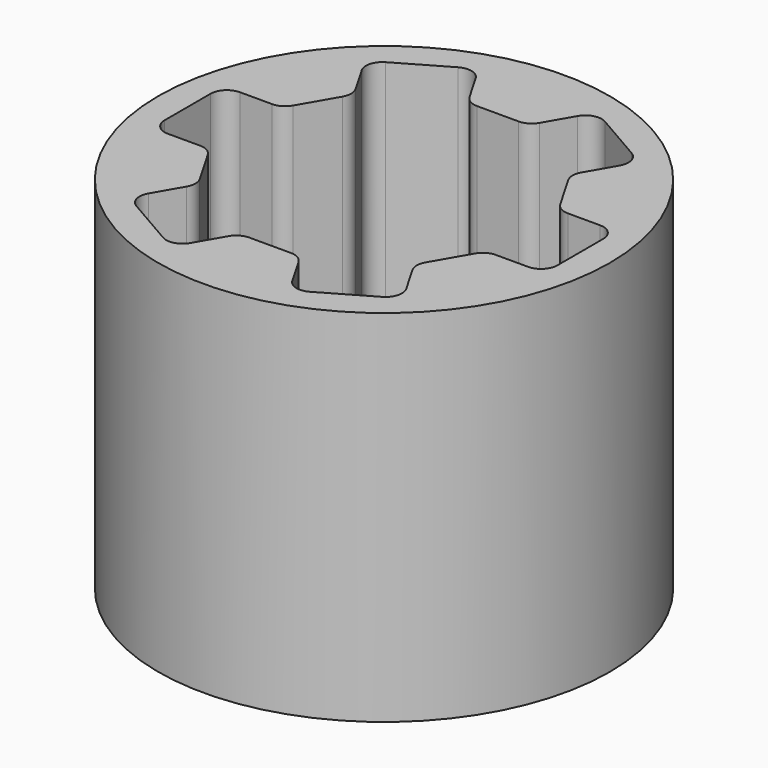
from build123d import *

# Parameters (mm, degrees)
F0_R          = 13.8
F1_DEPTH      = 16
F1_DEPTH_BACK = 6
F2_R          = 13.8
F3_DEPTH      = 2


with BuildPart() as f1:
    # F0 (on Top) → F1 (new body, two sides)
    with BuildSketch(Plane.XY) as f1_sk:
        Circle(F0_R)
        with BuildLine():
            Line((-1.270171, 8.7), (0, 8.7))
            Line((0, 8.7), (1.270171, 8.7))
            ThreePointArc((1.270171, 8.7), (1.770171, 8.833975), (2.136196, 9.2))
            Line((2.136196, 9.2), (3.11843, 10.901279))
            ThreePointArc((3.11843, 10.901279), (3.725636, 11.367205), (4.484456, 11.267305))
            Line((4.484456, 11.267305), (6, 10.392305))
            Line((6, 10.392305), (7.515544, 9.517305))
            ThreePointArc((7.515544, 9.517305), (7.98147, 8.910098), (7.88157, 8.151279))
            Line((7.88157, 8.151279), (6.899336, 6.45))
            ThreePointArc((6.899336, 6.45), (6.765361, 5.95), (6.899336, 5.45))
            Line((6.899336, 5.45), (7.534421, 4.35))
            Line((7.534421, 4.35), (8.169506, 3.25))
            ThreePointArc((8.169506, 3.25), (8.535532, 2.883975), (9.035532, 2.75))
            Line((9.035532, 2.75), (11, 2.75))
            ThreePointArc((11, 2.75), (11.707107, 2.457107), (12, 1.75))
            Line((12, 1.75), (12, 0))
            Line((12, 0), (12, -1.75))
            ThreePointArc((12, -1.75), (11.707107, -2.457107), (11, -2.75))
            Line((11, -2.75), (9.035532, -2.75))
            ThreePointArc((9.035532, -2.75), (8.535532, -2.883975), (8.169506, -3.25))
            Line((8.169506, -3.25), (7.534421, -4.35))
            Line((7.534421, -4.35), (6.899336, -5.45))
            ThreePointArc((6.899336, -5.45), (6.765361, -5.95), (6.899336, -6.45))
            Line((6.899336, -6.45), (7.88157, -8.151279))
            ThreePointArc((7.88157, -8.151279), (7.98147, -8.910098), (7.515544, -9.517305))
            Line((7.515544, -9.517305), (6, -10.392305))
            Line((6, -10.392305), (4.484456, -11.267305))
            ThreePointArc((4.484456, -11.267305), (3.725636, -11.367205), (3.11843, -10.901279))
            Line((3.11843, -10.901279), (2.136196, -9.2))
            ThreePointArc((2.136196, -9.2), (1.770171, -8.833975), (1.270171, -8.7))
            Line((1.270171, -8.7), (0, -8.7))
            Line((0, -8.7), (-1.270171, -8.7))
            ThreePointArc((-1.270171, -8.7), (-1.770171, -8.833975), (-2.136196, -9.2))
            Line((-2.136196, -9.2), (-3.11843, -10.901279))
            ThreePointArc((-3.11843, -10.901279), (-3.725636, -11.367205), (-4.484456, -11.267305))
            Line((-4.484456, -11.267305), (-6, -10.392305))
            Line((-6, -10.392305), (-7.515544, -9.517305))
            ThreePointArc((-7.515544, -9.517305), (-7.98147, -8.910098), (-7.88157, -8.151279))
            Line((-7.88157, -8.151279), (-6.899336, -6.45))
            ThreePointArc((-6.899336, -6.45), (-6.765361, -5.95), (-6.899336, -5.45))
            Line((-6.899336, -5.45), (-7.534421, -4.35))
            Line((-7.534421, -4.35), (-8.169506, -3.25))
            ThreePointArc((-8.169506, -3.25), (-8.535532, -2.883975), (-9.035532, -2.75))
            Line((-9.035532, -2.75), (-11, -2.75))
            ThreePointArc((-11, -2.75), (-11.707107, -2.457107), (-12, -1.75))
            Line((-12, -1.75), (-12, 0))
            Line((-12, 0), (-12, 1.75))
            ThreePointArc((-12, 1.75), (-11.707107, 2.457107), (-11, 2.75))
            Line((-11, 2.75), (-9.035532, 2.75))
            ThreePointArc((-9.035532, 2.75), (-8.535532, 2.883975), (-8.169506, 3.25))
            Line((-8.169506, 3.25), (-7.534421, 4.35))
            Line((-7.534421, 4.35), (-6.899336, 5.45))
            ThreePointArc((-6.899336, 5.45), (-6.765361, 5.95), (-6.899336, 6.45))
            Line((-6.899336, 6.45), (-7.88157, 8.151279))
            ThreePointArc((-7.88157, 8.151279), (-7.98147, 8.910098), (-7.515544, 9.517305))
            Line((-7.515544, 9.517305), (-6, 10.392305))
            Line((-6, 10.392305), (-4.484456, 11.267305))
            ThreePointArc((-4.484456, 11.267305), (-3.725636, 11.367205), (-3.11843, 10.901279))
            Line((-3.11843, 10.901279), (-2.136196, 9.2))
            ThreePointArc((-2.136196, 9.2), (-1.770171, 8.833975), (-1.270171, 8.7))
        make_face(mode=Mode.SUBTRACT)
    extrude(amount=F1_DEPTH)
    extrude(f1_sk.sketch, amount=-F1_DEPTH_BACK)

    # F2 (on Top) → F3 (join)
    with BuildSketch(Plane.XY):
        Circle(F2_R)
    extrude(amount=-F3_DEPTH)


solid = f1.part
